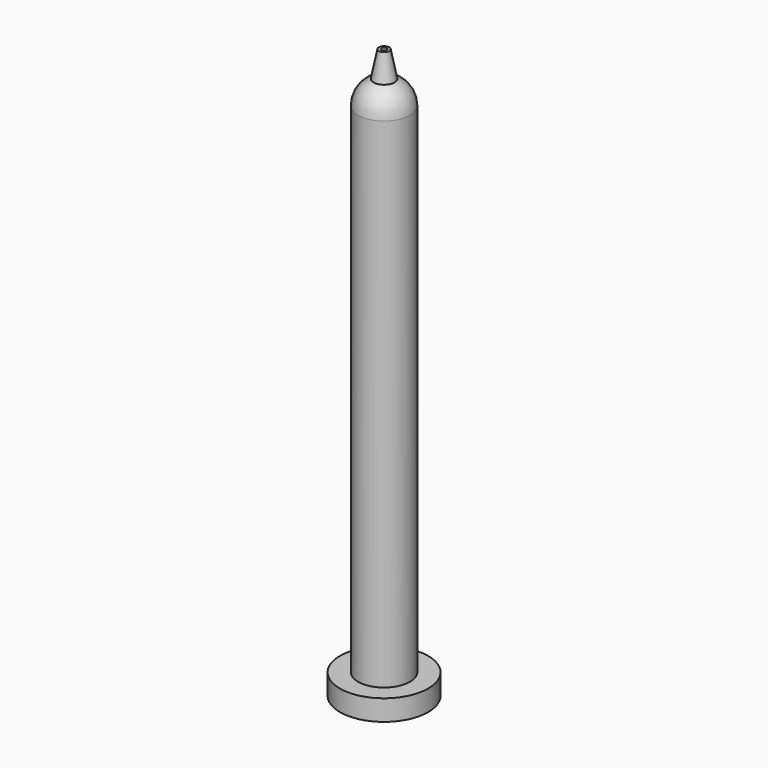
from build123d import *

# Parameters (mm, degrees)
F0_R     = 8.5
F1_DEPTH = 4
F2_R     = 5
F3_DEPTH = 100
F6_R     = 0.5
F7_DEPTH = 118.6


with BuildPart() as f1:
    # F0 (on Top) → F1 (new body)
    with BuildSketch(Plane.XY):
        Circle(F0_R)
    extrude(amount=F1_DEPTH)

    # F2 (on Top) → F3 (join)
    with BuildSketch(Plane.XY):
        Circle(F2_R)
    extrude(amount=F3_DEPTH)

    # F4 (on Right) → F5 (revolve)
    with BuildSketch(Plane.YZ):
        with BuildLine():
            Line((0, 104.582576), (0, 100))
            Line((0, 100), (5, 100))
            ThreePointArc((5, 100), (4.1833, 102.738613), (2, 104.582576))
            Line((2, 104.582576), (0, 104.582576))
        make_face()
        with BuildLine():
            ThreePointArc((0, 105), (1.021548, 104.894532), (2, 104.582576))
            Line((2, 104.582576), (1, 109.582576))
            Line((1, 109.582576), (0, 109.582576))
            Line((0, 109.582576), (0, 105))
        make_face()
        with BuildLine():
            Line((0, 105), (0, 104.582576))
            Line((0, 104.582576), (2, 104.582576))
            ThreePointArc((2, 104.582576), (1.021548, 104.894532), (0, 105))
        make_face()
    revolve(axis=Axis((0, 0, 104.791288), (0, 0, -1)))

    # F6 (on face) → F7 (cut)
    with BuildSketch(Plane(origin=(0, 0, 0), x_dir=(1, 0, 0), z_dir=(0, 0, -1))):
        Circle(F6_R)
    extrude(amount=-F7_DEPTH, mode=Mode.SUBTRACT)


solid = f1.part
